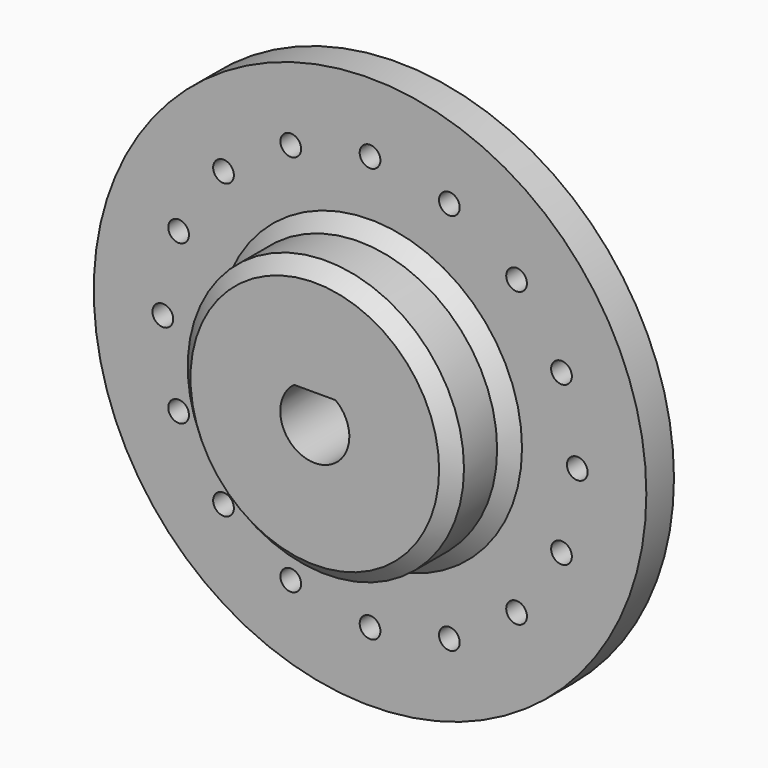
from build123d import *

# Parameters (mm, degrees)
F0_R     = 40
F0_R_2   = 1.5
F1_DEPTH = 5
F2_R     = 20
F3_DEPTH = 10
F4_DEPTH = 5.001
F5_SIZE  = 2


with BuildPart() as f1:
    # F0 (on Front) → F1 (new body)
    with BuildSketch(Plane.XZ):
        Circle(F0_R)
        with Locations((-21.213203, -21.213203)):
            Circle(F0_R_2, mode=Mode.SUBTRACT)
        with Locations((-11.480503, -27.716386)):
            Circle(F0_R_2, mode=Mode.SUBTRACT)
        with Locations((-27.716386, -11.480503)):
            Circle(F0_R_2, mode=Mode.SUBTRACT)
        with Locations((0, -30)):
            Circle(F0_R_2, mode=Mode.SUBTRACT)
        with Locations((11.480503, -27.716386)):
            Circle(F0_R_2, mode=Mode.SUBTRACT)
        with Locations((21.213203, -21.213203)):
            Circle(F0_R_2, mode=Mode.SUBTRACT)
        with Locations((27.716386, -11.480503)):
            Circle(F0_R_2, mode=Mode.SUBTRACT)
        with Locations((-30, 0)):
            Circle(F0_R_2, mode=Mode.SUBTRACT)
        with Locations((-27.716386, 11.480503)):
            Circle(F0_R_2, mode=Mode.SUBTRACT)
        with Locations((-21.213203, 21.213203)):
            Circle(F0_R_2, mode=Mode.SUBTRACT)
        with Locations((-11.480503, 27.716386)):
            Circle(F0_R_2, mode=Mode.SUBTRACT)
        with Locations((30, 0)):
            Circle(F0_R_2, mode=Mode.SUBTRACT)
        with Locations((27.716386, 11.480503)):
            Circle(F0_R_2, mode=Mode.SUBTRACT)
        with Locations((11.480503, 27.716386)):
            Circle(F0_R_2, mode=Mode.SUBTRACT)
        with Locations((0, 30)):
            Circle(F0_R_2, mode=Mode.SUBTRACT)
        with Locations((21.213203, 21.213203)):
            Circle(F0_R_2, mode=Mode.SUBTRACT)
    extrude(amount=F1_DEPTH)

    # F2 (on face) → F3 (join)
    with BuildSketch(Plane.XZ.offset(5)):
        Circle(F2_R)
        with BuildLine():
            ThreePointArc((3, 4), (0, -5), (-3, 4))
            Line((-3, 4), (3, 4))
        make_face(mode=Mode.SUBTRACT)
    extrude(amount=F3_DEPTH)

    # F3_face (on face) → F4 (cut, through all)
    with BuildSketch(Plane(origin=(0, -5, -0.241766), x_dir=(1, 0, 0), z_dir=(0, -1, 0))):
        with BuildLine():
            ThreePointArc((-3, 4.241766), (0, -4.758234), (3, 4.241766))
            Line((3, 4.241766), (-3, 4.241766))
        make_face()
    extrude(amount=-F4_DEPTH, mode=Mode.SUBTRACT)

    # F5
    f5_edges = [f1.edges().sort_by_distance(p)[0] for p in [
        (-20, -15, 0),
        (-20, -5, 0),
    ]]
    chamfer(f5_edges, length=F5_SIZE)


solid = f1.part
